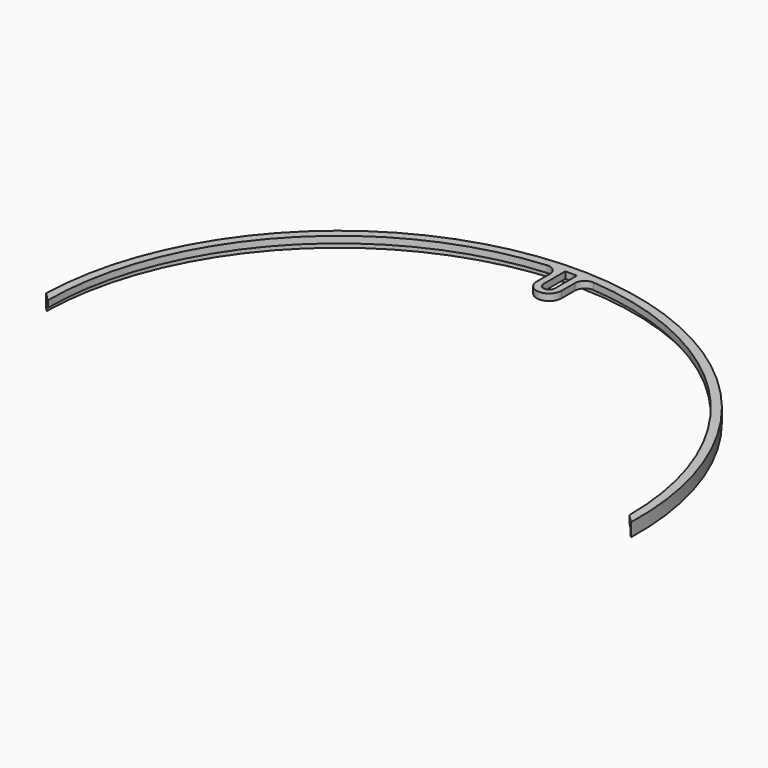
from build123d import *

# Parameters (mm, degrees)
F1_DEPTH = 4
F2_R     = 89
F3_DEPTH = 2


with BuildPart() as f1:
    # F0 (on Top) → F1 (new body)
    with BuildSketch(Plane.XY):
        with BuildLine():
            Line((87.4, 0), (89.963485, -2.563485))
            ThreePointArc((89.963485, -2.563485), (2.563485, 89.963485), (-89.963485, 2.563485))
            Line((-89.963485, 2.563485), (-87.4, 0))
            ThreePointArc((-87.4, 0), (-64.224916, 59.278327), (-6.989929, 87.120037))
            ThreePointArc((-6.989929, 87.120037), (-4.715275, 86.334164), (-3.75, 84.129647))
            Line((-3.75, 84.129647), (-3.75, 79.15))
            ThreePointArc((-3.75, 79.15), (0, 75.4), (3.75, 79.15))
            Line((3.75, 79.15), (3.75, 84.129647))
            ThreePointArc((3.75, 84.129647), (4.715275, 86.334164), (6.989929, 87.120037))
            ThreePointArc((6.989929, 87.120037), (64.224916, 59.278327), (87.4, 0))
        make_face()
        with BuildLine():
            ThreePointArc((1.75, 79.15), (0, 77.4), (-1.75, 79.15))
            Line((-1.75, 79.15), (-1.75, 87.4))
            Line((-1.75, 87.4), (1.75, 87.4))
            Line((1.75, 87.4), (1.75, 79.15))
        make_face(mode=Mode.SUBTRACT)
    extrude(amount=F1_DEPTH)

    # F2 (on Top) → F3 (cut)
    with BuildSketch(Plane.XY):
        Circle(F2_R)
    extrude(amount=F3_DEPTH, mode=Mode.SUBTRACT)


solid = f1.part
